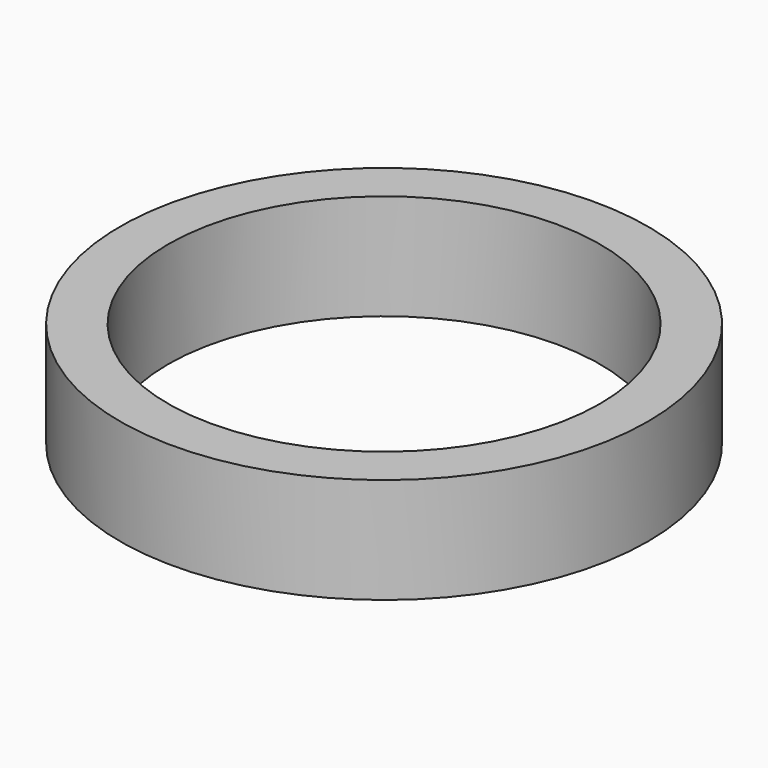
from build123d import *

# Parameters (mm, degrees)
SKETCH_R   = 27.5
SKETCH_R_2 = 22.5
PAD_DEPTH  = 11


with BuildPart() as part:
    # Sketch → Pad (new body)
    with BuildSketch(Plane.XY):
        Circle(SKETCH_R)
        Circle(SKETCH_R_2, mode=Mode.SUBTRACT)
    extrude(amount=PAD_DEPTH)


solid = part.part
